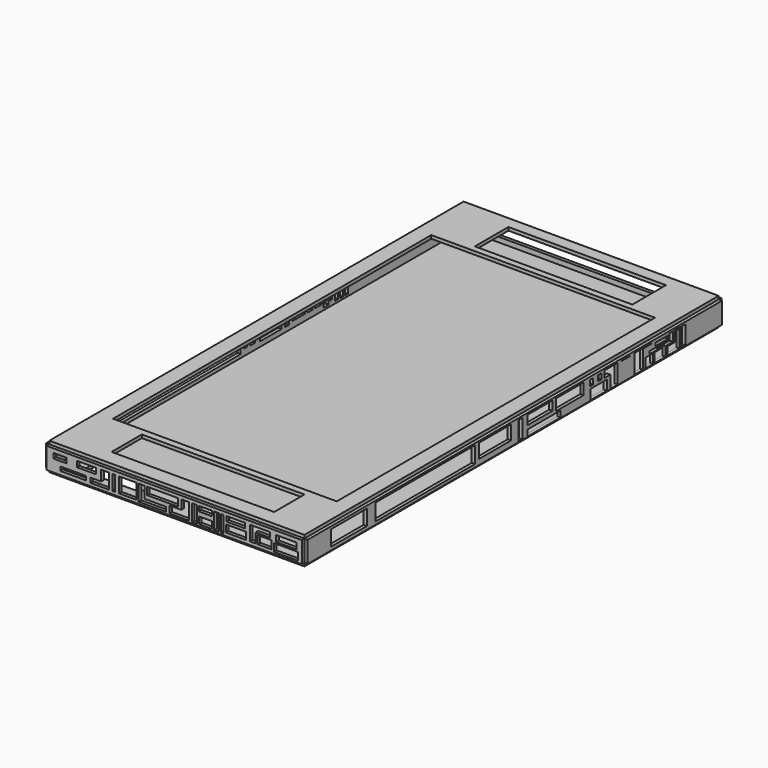
from build123d import *

# Parameters (mm, degrees)
F0_W      = 77.94
F0_H      = 158.22
F0_W_2    = 74.47
F0_H_2    = 154.75
F0_W_3    = 49.6909916401
F0_H_3    = 11.5736015141
F0_W_4    = 68.36
F0_H_4    = 121.54
F0_W_5    = 48.1407232583
F0_H_5    = 12.8375291824
F1_DEPTH  = 1
F2_W      = 158.22
F2_H      = 6.5
F2_W_2    = 13.6235542595
F2_H_2    = 4.6998882899
F2_W_3    = 38.0988273537
F2_H_3    = 5.0881171483
F2_W_4    = 12.6316752285
F2_H_4    = 1.8876699497
F2_W_5    = 2.8441473842
F2_H_5    = 2.9237979848
F2_W_6    = 1.5311120078
F2_H_6    = 5.8475959696
F2_W_7    = 12.1945301071
F2_H_7    = 4.342703789
F2_W_8    = 9.5694512129
F2_H_8    = 2.811592014
F2_W_9    = 10.5789359659
F2_H_9    = 3.4478648449
F2_W_10   = 1.1483356357
F2_H_10   = 1.722501067
F2_W_11   = 1.3397186995
F2_H_11   = 1.6268065083
F2_W_12   = 3.600474447
F2_H_12   = 0.8458278608
F2_W_13   = 4.7197192907
F2_H_13   = 0.9134940919
F2_W_14   = 3.1426772475
F2_H_14   = 0.1352320542
F4_DEPTH  = 1
F6_W      = 77.94
F6_H      = 6.5
F6_W_2    = 58.6185269058
F6_H_2    = 3.774307319
F7_DEPTH  = 1
F5_W      = 158.22
F5_H      = 6.5
F5_W_2    = 2.0317249
F5_H_2    = 1.4966684394
F5_W_3    = 1.0713525116
F5_H_3    = 2.7004973963
F5_W_4    = 0.8912459016
F5_H_4    = 2.2582744714
F5_W_5    = 8.2381200045
F5_H_5    = 1.7038015649
F5_W_6    = 4.704920575
F5_H_6    = 1.2531410903
F5_W_7    = 1.0336562991
F5_H_7    = 4.587241332
F5_W_8    = 1.0816752911
F5_W_9    = 0.3178454936
F5_H_8    = 1.8015804235
F5_W_10   = 1.3131611049
F5_H_9    = 1.5877459664
F5_W_11   = 1.5645287931
F5_H_10   = 3.805362503
F5_W_12   = 1.1399788782
F5_H_11   = 2.3012515157
F5_W_13   = 1.7132423818
F5_H_12   = 3.3789685695
F5_W_14   = 59.6367027611
F5_H_13   = 4.1793206474
F5_W_15   = 1.7768554389
F5_H_14   = 0.870190328
F5_W_16   = 2.6834402233
F5_H_15   = 1.3902975479
F5_W_17   = 1.8140673637
F5_H_16   = 1.6832113033
F5_W_18   = 2.4884939194
F5_H_17   = 1.0476239258
F5_W_19   = 2.3980140686
F5_H_18   = 0.6134410505
F5_W_20   = 1.7166920006
F5_W_21   = 2.3051463068
F5_H_19   = 1.3777640997
F5_W_22   = 1.5129661188
F5_H_20   = 1.3286038884
F8_DEPTH  = 1
F3_W      = 77.94
F3_H      = 6.5
F3_W_2    = 7.8943371773
F3_H_2    = 1.2060785666
F3_W_3    = 0.8771494031
F3_H_3    = 4.5868142042
F3_W_4    = 5.262888968
F3_W_5    = 4.0652826428
F3_H_4    = 2.0924245473
F3_W_6    = 7.3173493147
F3_H_5    = 2.3652501404
F3_W_7    = 1.5543699265
F3_H_6    = 5.0439232728
F3_W_8    = 1.434803009
F3_H_7    = 4.9687157152
F3_W_9    = 0.8369684219
F3_H_8    = 4.9986074446
F3_W_10   = 4.3807849288
F3_H_9    = 2.4790328462
F3_W_11   = 4.0568113327
F3_H_10   = 1.5261016237
F3_W_12   = 5.920752883
F3_H_11   = 1.7542965943
F3_W_13   = 9.4293504953
F3_H_12   = 2.2934071021
F3_H_13   = 1.5166929225
F3_W_14   = 5.7768523693
F3_W_15   = 6.2582567334
F3_H_14   = 1.8528767396
F9_DEPTH  = 1
F10_W     = 77.94
F10_H     = 158.22
F10_W_2   = 17.82
F10_H_2   = 10.9981559217
F11_DEPTH = 1


with BuildPart() as f1:
    # F0 (on Top) → F1 (new body)
    with BuildSketch(Plane.XY):
        with Locations((81.5830752254, 13.678367857)):
            Rectangle(F0_W, F0_H)
        with Locations((81.5830752254, 13.678367857)):
            Rectangle(F0_W_2, F0_H_2, mode=Mode.SUBTRACT)
        with Locations((81.5830752254, 13.678367857)):
            Rectangle(F0_W_2, F0_H_2)
        with Locations((82.6871693134, -54.9214165658)):
            Rectangle(F0_W_3, F0_H_3, mode=Mode.SUBTRACT)
        with Locations((81.5830752254, 13.678367857)):
            Rectangle(F0_W_4, F0_H_4, mode=Mode.SUBTRACT)
        with Locations((83.2491572946, 82.7925503254)):
            Rectangle(F0_W_5, F0_H_5, mode=Mode.SUBTRACT)
    extrude(amount=F1_DEPTH)


with BuildPart() as f4:
    # F2 (on face) → F4 (new body)
    with BuildSketch(Plane.YZ.offset(120.5530752254)):
        with Locations((13.678367857, -3.25)):
            Rectangle(F2_W, F2_H)
        with Locations((-49.6525522321, -3.143527254)):
            Rectangle(F2_W_2, F2_H_2, mode=Mode.SUBTRACT)
        with Locations((-20.5727813882, -3.0572939722)):
            Rectangle(F2_W_3, F2_H_3, mode=Mode.SUBTRACT)
        with Locations((24.8262034729, -5.4169963928)):
            Rectangle(F2_W_4, F2_H_4, mode=Mode.SUBTRACT)
        Polygon((42.6253825426, -6.3608313677), (42.6253825426, -3.3248274121), (48.8455221057, -3.3248274121), (48.8455221057, -6.3608313677), (46.4810207486, -6.3608313677), (44.763892889, -6.3608313677), align=None, mode=Mode.SUBTRACT)
        with Locations((65.105419606, -4.8989323753)):
            Rectangle(F2_W_5, F2_H_5, mode=Mode.SUBTRACT)
        with Locations((15.8309214748, -3.4370333829)):
            Rectangle(F2_W_6, F2_H_6, mode=Mode.SUBTRACT)
        Polygon((47.9842722416, -2.5592714082), (47.9842722416, -0.5132353981), (52.9603883624, -0.5132353981), (52.9603883624, -2.5592714082), (52.9603883624, -3.4370333829), (52.9603883624, -4.473161418), (52.9603883624, -6.3608313677), (50.1847788692, -6.3608313677), (50.1847788692, -4.473161418), (50.1847788692, -3.4370333829), (50.1847788692, -2.5592714082), align=None, mode=Mode.SUBTRACT)
        Polygon((59.3855343759, -2.8168095741), (59.3855343759, -0.6484674523), (59.3855343759, -0.5132353981), (62.6740027219, -0.5132353981), (65.9624710679, -0.5132353981), (65.9624710679, -0.6484674523), (62.6740027219, -0.6484674523), (62.6740027219, -2.8168095741), (62.6740027219, -4.473161418), (62.6740027219, -6.3608313677), (59.3855343759, -6.3608313677), (59.3855343759, -4.473161418), align=None, mode=Mode.SUBTRACT)
        Polygon((66.9969990849, -6.3608313677), (66.9969990849, -3.4370333829), (69.3314895034, -3.4370333829), (69.3314895034, -2.2157824133), (71.2599754333, -2.2157824133), (72.680965066, -2.2157824133), (72.680965066, -0.6484674523), (74.0342885256, -0.6484674523), (74.0342885256, -2.2157824133), (74.0342885256, -3.4370333829), (71.2599754333, -3.4370333829), (71.2599754333, -6.3608313677), align=None, mode=Mode.SUBTRACT)
        Polygon((71.9408467412, -6.3608313677), (71.9408467412, -3.8420802448), (74.6813267469, -3.8420802448), (74.6813267469, -0.5132353981), (76.6436457634, -0.5132353981), (76.6436457634, -0.6484674523), (78.8551047444, -0.6484674523), (78.8551047444, -1.3610507594), (78.8551047444, -6.3608313677), (77.4265602231, -6.3608313677), (77.4265602231, -1.3610507594), (76.6436457634, -1.3610507594), (76.6436457634, -3.8420802448), (76.6436457634, -6.3608313677), align=None, mode=Mode.SUBTRACT)
        with Locations((6.0972650535, -2.6845872926)):
            Rectangle(F2_W_7, F2_H_7, mode=Mode.SUBTRACT)
        with Locations((23.2950914651, -1.9190314051)):
            Rectangle(F2_W_8, F2_H_8, mode=Mode.SUBTRACT)
        with Locations((34.6564659849, -2.2371678206)):
            Rectangle(F2_W_9, F2_H_9, mode=Mode.SUBTRACT)
        with Locations((43.0081598461, -1.6980208748)):
            Rectangle(F2_W_10, F2_H_10, mode=Mode.SUBTRACT)
        with Locations((46.1660772562, -1.6501735954)):
            Rectangle(F2_W_11, F2_H_11, mode=Mode.SUBTRACT)
        with Locations((66.9056568295, -2.7256567264)):
            Rectangle(F2_W_12, F2_H_12, mode=Mode.SUBTRACT)
        with Locations((69.7966963053, -1.4207041531)):
            Rectangle(F2_W_13, F2_H_13, mode=Mode.SUBTRACT)
        with Locations((56.0322664678, -0.5808514252)):
            Rectangle(F2_W_14, F2_H_14, mode=Mode.SUBTRACT)
    extrude(amount=F4_DEPTH)



with BuildPart() as f7:
    # F6 (on face) → F7 (new body)
    with BuildSketch(Plane(origin=(0, 92.788367857, 0), x_dir=(-1, 0, 0), z_dir=(0, 1, 0))):
        with Locations((-81.5830752254, -3.25)):
            Rectangle(F6_W, F6_H)
        with Locations((-79.5948524028, -3.1097160536)):
            Rectangle(F6_W_2, F6_H_2, mode=Mode.SUBTRACT)
    extrude(amount=F7_DEPTH)


with BuildPart() as f8:
    # F5 (on face) → F8 (new body)
    with BuildSketch(Plane(origin=(42.6130752254, 0, 0), x_dir=(0, -1, 0), z_dir=(-1, 0, 0))):
        with Locations((-13.678367857, -3.25)):
            Rectangle(F5_W, F5_H)
        with Locations((-40.2537789196, -5.081895506)):
            Rectangle(F5_W_2, F5_H_2, mode=Mode.SUBTRACT)
        with Locations((-44.2759413272, -4.4143437408)):
            Rectangle(F5_W_3, F5_H_3, mode=Mode.SUBTRACT)
        with Locations((-42.1404130757, -3.7925244542)):
            Rectangle(F5_W_4, F5_H_4, mode=Mode.SUBTRACT)
        with Locations((-19.1993014887, -4.1752252728)):
            Rectangle(F5_W_5, F5_H_5, mode=Mode.SUBTRACT)
        with Locations((-29.8497350886, -3.9498950355)):
            Rectangle(F5_W_6, F5_H_6, mode=Mode.SUBTRACT)
        with Locations((-48.0651780963, -3.5667103366)):
            Rectangle(F5_W_7, F5_H_7, mode=Mode.SUBTRACT)
        with Locations((-46.1614876986, -3.5667103366)):
            Rectangle(F5_W_8, F5_H_7, mode=Mode.SUBTRACT)
        with Locations((-47.1643786877, -3.4007619834)):
            Rectangle(F5_W_9, F5_H_8, mode=Mode.SUBTRACT)
        Polygon((-38.4662002325, -4.6507664956), (-38.4662002325, -2.3207135964), (-37.7734079957, -2.3207135964), (-37.7734079957, -3.6409185268), (-36.0467620194, -3.6409185268), (-36.0467620194, -4.6507664956), (-37.7734079957, -4.6507664956), align=None, mode=Mode.SUBTRACT)
        with Locations((-40.197217837, -3.1145865796)):
            Rectangle(F5_W_10, F5_H_9, mode=Mode.SUBTRACT)
        with Locations((-25.3616962582, -3.1757709221)):
            Rectangle(F5_W_11, F5_H_10, mode=Mode.SUBTRACT)
        Polygon((-35.0245498121, -1.2730896706), (-31.6422022879, -1.2730896706), (-31.6422022879, -2.4999717716), (-33.2621708512, -2.4999717716), (-33.2621708512, -4.6622273512), (-35.0245498121, -4.6622273512), (-35.0245498121, -2.4999717716), align=None, mode=Mode.SUBTRACT)
        with Locations((-9.4114453532, -3.3530197106)):
            Rectangle(F5_W_12, F5_H_11, mode=Mode.SUBTRACT)
        with Locations((-12.3023483902, -2.9625739553)):
            Rectangle(F5_W_13, F5_H_12, mode=Mode.SUBTRACT)
        with Locations((22.1526445821, -3.3627499943)):
            Rectangle(F5_W_14, F5_H_13, mode=Mode.SUBTRACT)
        with Locations((-36.631738767, -2.6289998787)):
            Rectangle(F5_W_15, F5_H_14, mode=Mode.SUBTRACT)
        with Locations((-28.7810051814, -1.9682384445)):
            Rectangle(F5_W_16, F5_H_15, mode=Mode.SUBTRACT)
        with Locations((-19.1522166133, -2.1146953222)):
            Rectangle(F5_W_17, F5_H_16, mode=Mode.SUBTRACT)
        with Locations((-43.7634065747, -1.7969016335)):
            Rectangle(F5_W_18, F5_H_17, mode=Mode.SUBTRACT)
        with Locations((-40.4369235039, -1.5798101958)):
            Rectangle(F5_W_19, F5_H_18, mode=Mode.SUBTRACT)
        with Locations((-37.53827326, -1.5798101958)):
            Rectangle(F5_W_20, F5_H_18, mode=Mode.SUBTRACT)
        with Locations((-22.1657883376, -1.6099172935)):
            Rectangle(F5_W_21, F5_H_19, mode=Mode.SUBTRACT)
        with Locations((-16.1442593671, -1.5380920086)):
            Rectangle(F5_W_22, F5_H_20, mode=Mode.SUBTRACT)
    extrude(amount=F8_DEPTH)


with BuildPart() as f9:
    # F3 (on face) → F9 (new body)
    with BuildSketch(Plane.XZ.offset(65.431632143)):
        with Locations((81.5830752254, -3.25)):
            Rectangle(F3_W, F3_H)
        with Locations((50.6902821362, -4.7873128206)):
            Rectangle(F3_W_2, F3_H_2, mode=Mode.SUBTRACT)
        Polygon((55.9531711042, -5.6096385233), (55.9531711042, -4.1842735372), (59.2424795032, -4.1842735372), (59.2424795032, -1.0046093957), (61.6546347737, -1.0046093957), (61.6546347737, -4.1842735372), (61.6546347737, -5.6096385233), align=None, mode=Mode.SUBTRACT)
        with Locations((63.0800016224, -3.2980164979)):
            Rectangle(F3_W_3, F3_H_3, mode=Mode.SUBTRACT)
        with Locations((67.3560984433, -3.2980164979)):
            Rectangle(F3_W_4, F3_H_3, mode=Mode.SUBTRACT)
        Polygon((70.7132145762, -1.0046093957), (72.5184828043, -1.0046093957), (72.5184828043, -3.2980164979), (72.5184828043, -4.5255972072), (79.0655836463, -4.5255972072), (79.0655836463, -5.8975992724), (70.7132145762, -5.8975992724), (70.7132145762, -4.5255972072), (70.7132145762, -3.2980164979), align=None, mode=Mode.SUBTRACT)
        with Locations((91.1516584456, -4.8827530118)):
            Rectangle(F3_W_5, F3_H_4, mode=Mode.SUBTRACT)
        with Locations((115.7237440348, -4.7463402152)):
            Rectangle(F3_W_6, F3_H_5, mode=Mode.SUBTRACT)
        Polygon((97.3697304726, -5.5126738735), (97.3697304726, -3.2980164979), (99.3916317821, -3.2980164979), (101.3413146138, -3.2980164979), (103.4594923258, -3.2980164979), (103.4594923258, -5.5126738735), (101.3413146138, -5.5126738735), (99.3916317821, -5.5126738735), align=None, mode=Mode.SUBTRACT)
        Polygon((80.1514834166, -5.9887492098), (80.1514834166, -3.8365407381), (83.7384983897, -3.8365407381), (83.7384983897, -1.0046093957), (86.0102772713, -1.0046093957), (86.0102772713, -3.8365407381), (86.0102772713, -5.9887492098), align=None, mode=Mode.SUBTRACT)
        with Locations((87.8037810326, -3.5265710321)):
            Rectangle(F3_W_7, F3_H_6, mode=Mode.SUBTRACT)
        with Locations((94.5033505559, -3.4889672534)):
            Rectangle(F3_W_8, F3_H_7, mode=Mode.SUBTRACT)
        with Locations((96.2370708585, -3.503913118)):
            Rectangle(F3_W_9, F3_H_8, mode=Mode.SUBTRACT)
        with Locations((109.1620065272, -4.2731574504)):
            Rectangle(F3_W_10, F3_H_9, mode=Mode.SUBTRACT)
        Polygon((104.7571599483, -5.5126738735), (104.7571599483, -1.0046093957), (106.4179986715, -1.0046093957), (110.8709946275, -1.0046093957), (110.8709946275, -2.5213023182), (106.4179986715, -2.5213023182), (106.4179986715, -5.5126738735), align=None, mode=Mode.SUBTRACT)
        with Locations((46.6882921755, -1.9869491882)):
            Rectangle(F3_W_11, F3_H_10, mode=Mode.SUBTRACT)
        with Locations((54.7470934689, -1.8817576929)):
            Rectangle(F3_W_12, F3_H_11, mode=Mode.SUBTRACT)
        with Locations((77.9915228486, -2.1513129468)):
            Rectangle(F3_W_13, F3_H_12, mode=Mode.SUBTRACT)
        with Locations((91.1516584456, -1.762955857)):
            Rectangle(F3_W_5, F3_H_13, mode=Mode.SUBTRACT)
        with Locations((100.3785058856, -1.762955857)):
            Rectangle(F3_W_14, F3_H_13, mode=Mode.SUBTRACT)
        with Locations((115.8681623638, -2.1072026575)):
            Rectangle(F3_W_15, F3_H_14, mode=Mode.SUBTRACT)
    extrude(amount=F9_DEPTH)


with BuildPart() as f4_1:
    add(f4.part)

    add(f7.part)  # F11 merges F7

    add(f8.part)  # F11 merges F8

    add(f9.part)  # F11 merges F9
    # F10 (on face) → F11 (join)
    with BuildSketch(Plane(origin=(0, 0, -6.5), x_dir=(1, 0, 0), z_dir=(0, 0, -1))):
        with Locations((81.5830752254, -13.678367857)):
            Rectangle(F10_W, F10_H)
        with Locations((58.2730752254, 55.8946933597)):
            Rectangle(F10_W_2, F10_H_2, mode=Mode.SUBTRACT)
    extrude(amount=F11_DEPTH)


solid = Compound([f1.part, f4_1.part])
